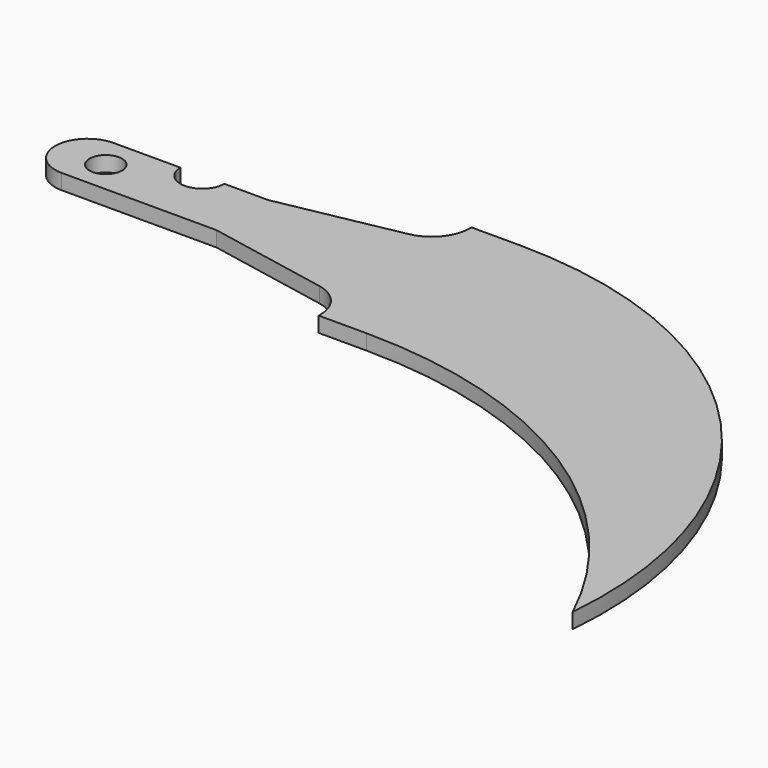
from build123d import *

# Parameters (mm, degrees)
F0_R     = 2.159
F1_DEPTH = 1.016


with BuildPart() as f1:
    # F0 (on Top) → F1 (new body, symmetric)
    with BuildSketch(Plane.XY):
        with BuildLine():
            Line((13.208, 22.098), (4.318, 22.098))
            ThreePointArc((4.318, 22.098), (0, 17.78), (4.318, 13.462))
            Line((4.318, 13.462), (24.892, 13.462))
            Line((24.892, 13.462), (41.098512, 10.321209))
            ThreePointArc((41.098512, 10.321209), (44.050946, 8.566377), (45.212, 5.334))
            Line((45.212, 5.334), (45.212, 5.08))
            Line((45.212, 5.08), (51.562, 5.08))
            ThreePointArc((51.562, 5.08), (84.679548, -4.563853), (107.442, -30.48))
            ThreePointArc((107.442, -30.48), (92.910204, 12.290854), (51.562, 30.48))
            Line((51.562, 30.48), (45.212, 30.48))
            Line((45.212, 30.48), (45.212, 30.226))
            ThreePointArc((45.212, 30.226), (44.050946, 26.993623), (41.098512, 25.238791))
            Line((41.098512, 25.238791), (24.892, 22.098))
            Line((24.892, 22.098), (19.05, 22.098))
            ThreePointArc((19.05, 22.098), (16.129, 19.177), (13.208, 22.098))
        make_face()
        with Locations((6.731, 17.78)):
            Circle(F0_R, mode=Mode.SUBTRACT)
    extrude(amount=F1_DEPTH, both=True)


solid = f1.part
